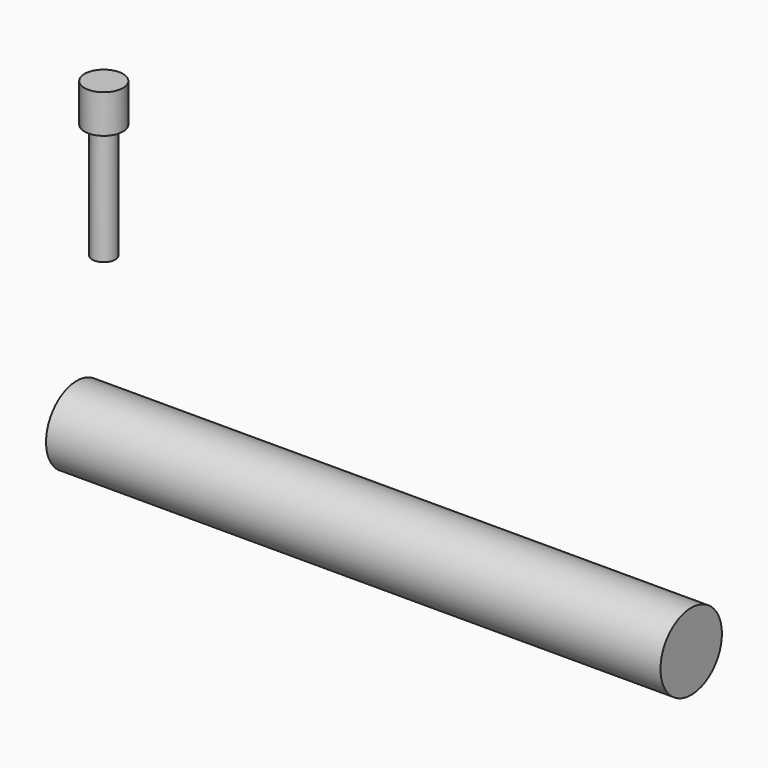
from build123d import *

# Parameters (mm, degrees)
F0_R     = 6.35
F1_DEPTH = 101.6
F2_R     = 1.905
F3_DEPTH = 19.05
F4_R     = 3.175
F4_R_2   = 1.905
F5_DEPTH = 6.35


with BuildPart() as f1:
    # F0 (on Right) → F1 (new body)
    with BuildSketch(Plane.YZ):
        with Locations((-34.975357, 21.511393)):
            Circle(F0_R)
    extrude(amount=F1_DEPTH)


with BuildPart() as f3:
    # F2 (on Top) → F3 (new body)
    with BuildSketch(Plane.XY):
        with Locations((-52.607972, 36.368184)):
            Circle(F2_R)
    extrude(amount=F3_DEPTH)

    # F4 (on face) → F5 (join)
    with BuildSketch(Plane.XY.offset(19.05)):
        with Locations((-52.607972, 36.368184)):
            Circle(F4_R)
        with Locations((-52.607972, 36.368184)):
            Circle(F4_R_2, mode=Mode.SUBTRACT)
        with Locations((-52.607972, 36.368184)):
            Circle(F4_R_2)
    extrude(amount=F5_DEPTH)


solid = Compound([f1.part, f3.part])
